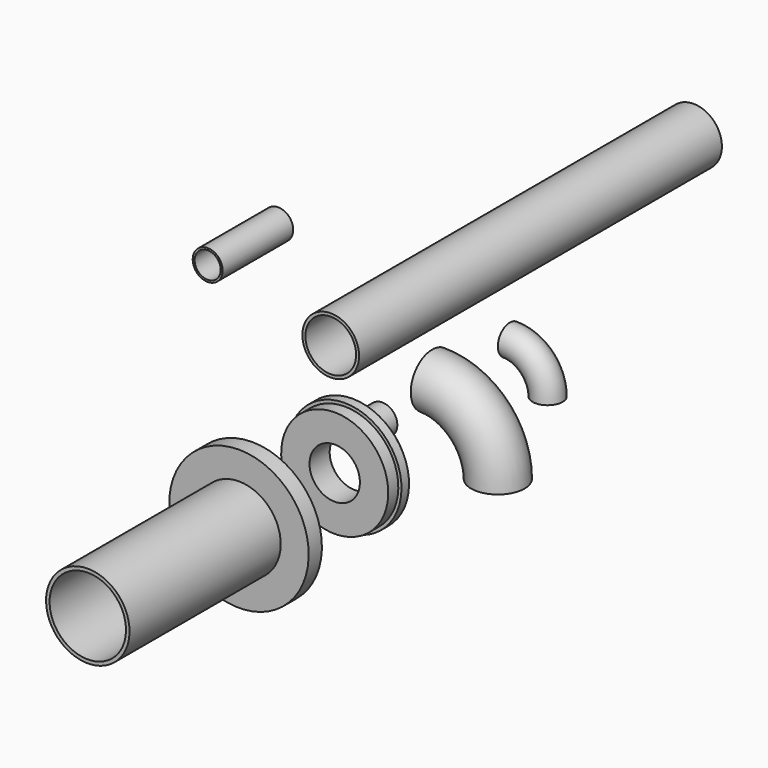
from build123d import *

# Parameters (mm, degrees)
F0_R      = 53.8099
F0_R_2    = 51.1302
F1_ANGLE  = 90
F2_R      = 30.1625
F2_R_2    = 26.2509
F3_ANGLE  = 90
F4_R      = 57.15
F4_R_2    = 51.1302
F5_DEPTH  = 914.4
F6_R      = 30.1625
F6_R_2    = 26.2509
F7_DEPTH  = 50.8
F8_W      = 25.4
F8_H      = 57.15
F8_W_2    = 6.35
F10_R     = 30.1625
F10_R_2   = 26.2509
F11_DEPTH = 177.8
F12_W     = 6.35
F12_H     = 50.8
F12_W_2   = 381
F12_H_2   = 7.112


with BuildPart() as f1:
    # F0 (on Right) → F1 (revolve)
    with BuildSketch(Plane.YZ):
        with Locations((-36.256749, 42.935793)):
            Circle(F0_R)
        with Locations((-36.256749, 42.935793)):
            Circle(F0_R_2, mode=Mode.SUBTRACT)
    revolve(axis=Axis((0, -29.155705, -89.535688), (0, 1, 0)), revolution_arc=F1_ANGLE)


with BuildPart() as f3:
    # F2 (on Right) → F3 (revolve)
    with BuildSketch(Plane.YZ):
        with Locations((159.550577, 34.940421)):
            Circle(F2_R)
        with Locations((159.550577, 34.940421)):
            Circle(F2_R_2, mode=Mode.SUBTRACT)
    revolve(axis=Axis((0, 163.209058, -41.259579), (0, 1, 0)), revolution_arc=F3_ANGLE)


with BuildPart() as f5:
    # F4 (on Front) → F5 (new body)
    with BuildSketch(Plane.XZ):
        with Locations((-233.394548, 13.478713)):
            Circle(F4_R)
        with Locations((-233.394548, 13.478713)):
            Circle(F4_R_2, mode=Mode.SUBTRACT)
    extrude(amount=-F5_DEPTH)


with BuildPart() as f7:
    # F6 (on Front) → F7 (new body)
    with BuildSketch(Plane.XZ):
        with Locations((-169.919446, -117.89754)):
            Circle(F6_R)
        with Locations((-169.919446, -117.89754)):
            Circle(F6_R_2, mode=Mode.SUBTRACT)
    extrude(amount=-F7_DEPTH)


with BuildPart() as f9:
    # F8 (on Right) → F9 (revolve)
    with BuildSketch(Plane.YZ):
        with Locations((-269.021934, 56.603631)):
            Rectangle(F8_W, F8_H)
        with Locations((-234.096934, 56.603631)):
            Rectangle(F8_W_2, F8_H)
        Polygon((-237.271934, 91.528631), (-256.321934, 91.528631), (-256.321934, 85.178631), (-256.321934, 28.028631), (-237.271934, 28.028631), (-237.271934, 85.178631), align=None)
    revolve(axis=Axis((0, -245.556988, -22.771369), (0, 1, 0)))


with BuildPart() as f11:
    # F10 (on Front) → F11 (new body)
    with BuildSketch(Plane.XZ):
        with Locations((-481.501371, 75.524576)):
            Circle(F10_R)
        with Locations((-481.501371, 75.524576)):
            Circle(F10_R_2, mode=Mode.SUBTRACT)
    extrude(amount=-F11_DEPTH)


with BuildPart() as f13:
    # F12 (on Right) → F13 (revolve)
    with BuildSketch(Plane.YZ):
        with Locations((-486.458755, 78.983443)):
            Rectangle(F12_W, F12_H)
        Polygon((-489.633755, 117.083443), (-508.683755, 117.083443), (-508.683755, 53.583443), (-489.633755, 53.583443), (-489.633755, 104.383443), align=None)
        Polygon((-508.683755, 53.583443), (-508.683755, 117.083443), (-522.971255, 117.083443), (-522.971255, 60.695443), (-522.971255, 53.583443), align=None)
        with Locations((-713.471255, 57.139443)):
            Rectangle(F12_W_2, F12_H_2)
    revolve(axis=Axis((0, -599.371985, -23.442057), (0, 1, 0)))


solid = Compound([f1.part, f3.part, f5.part, f7.part, f9.part, f11.part, f13.part])
